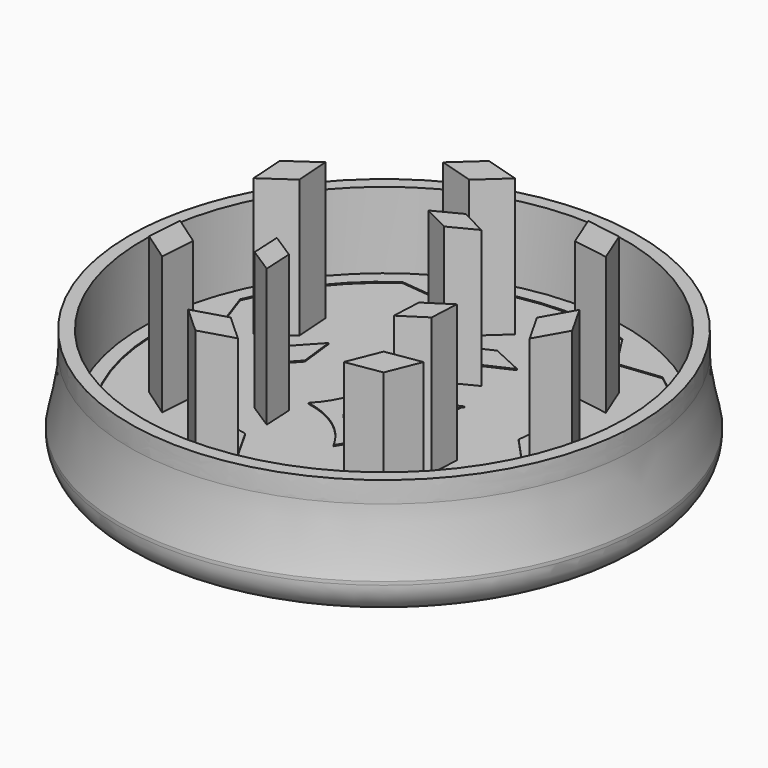
from build123d import *

# Parameters (mm, degrees)
F0_R      = 25
F1_DEPTH  = 15
F2_R      = 3
F5_R      = 21.5
F6_DEPTH  = 11
F8_DEPTH  = 10.8
F9_R      = 26.7298154152
F10_DEPTH = 5.7
F11_R     = 22.85
F11_R_2   = 3
F12_DEPTH = 5.2
F14_DEPTH = 8
F15_DEPTH = 5
F16_DEPTH = 2


with BuildPart() as f1:
    # F0 (on Top) → F1 (new body)
    with BuildSketch(Plane.XY):
        Circle(F0_R)
    extrude(amount=F1_DEPTH)

    # F2
    f2_edges = [f1.edges().sort_by_distance(p)[0] for p in [
        (-25, 0, 0),
    ]]
    fillet(f2_edges, radius=F2_R)

    # F3 (on Front) → F4 (revolve, cut)
    with BuildSketch(Plane.XZ):
        with BuildLine():
            Line((27.423677966, 5.2825664575), (25, 14.9365440011))
            add(Edge.make_bspline(
                [(25, 14.9365440011), (24.5482466845, 13.0284596048), (23.6395446157, 9.1903466819), (24.5447896478, 5.2825664575), (25, 3.3175051212)],
                knots=[0, 0, 0, 0, 0.4971412865, 1, 1, 1, 1], degree=3))
            Line((25, 3.3175051212), (27.423677966, 5.2825664575))
        make_face()
    revolve(axis=Axis((0, 0, 20.2008970082), (0, 0, -1)), mode=Mode.SUBTRACT)

    # F5 (on face) → F6 (cut)
    with BuildSketch(Plane.XY.offset(15)):
        Circle(F5_R)
    extrude(amount=-F6_DEPTH, mode=Mode.SUBTRACT)

    # F7 (on face) → F8 (join)
    with BuildSketch(Plane.XY.offset(4)):
        with BuildLine():
            Line((-3.5030060365, 4.8188975732), (-3.5, 4.8173367216))
            Line((-3.5, 4.8173367216), (-3.4936811056, 4.8173367216))
            ThreePointArc((-3.4936811056, 4.8173367216), (-3.4985674675, 4.8197108468), (-3.5034522162, 4.8220882896))
            ThreePointArc((-3.5034522162, 4.8220882896), (-3.5032289657, 4.8204929538), (-3.5030060365, 4.8188975732))
        make_face()
        with BuildLine():
            Line((-3.5019526458, 4.8113270959), (-3.5, 4.8173367216))
            Line((-3.5, 4.8173367216), (-3.5030060365, 4.8188975732))
            ThreePointArc((-3.5030060365, 4.8188975732), (-3.502478437, 4.8151124604), (-3.5019526458, 4.8113270959))
        make_face()
        with BuildLine():
            Line((-3.4936811056, 4.8173367216), (-3.5, 4.8173367216))
            Line((-3.5, 4.8173367216), (-3.5019526458, 4.8113270959))
            ThreePointArc((-3.5019526458, 4.8113270959), (-3.8176882042, 1.2404420916), (-5.6611663149, -1.8340492667))
            Line((-5.6611663149, -1.8340492667), (-5.6631189606, -1.8400588924))
            Line((-5.6631189606, -1.8400588924), (-5.6580068676, -1.8437730454))
            ThreePointArc((-5.6580068676, -1.8437730454), (-2.3594610686, -3.2475195569), (-0.005112093, -5.9508415055))
            Line((-0.005112093, -5.9508415055), (0, -5.9545556585))
            Line((0, -5.9545556585), (0.005112093, -5.9508415055))
            ThreePointArc((0.005112093, -5.9508415055), (0.0154537536, -5.9315416501), (0.025848199, -5.912270172))
            Line((0.025848199, -5.912270172), (0.0131157498, -2.9999713294))
            ThreePointArc((0.0131157498, -2.9999713294), (-2.9999928323, -0.0065578905), (0, 3))
            Line((0, 3), (0, 4.0141549306))
            ThreePointArc((0, 4.0141549306), (-1.7924082025, 4.2175356096), (-3.4936811056, 4.8173367216))
        make_face()
        Polygon((-3, 12.0141549306), (0, 10.6355519965), (0, 12.0141549306), (3, 12.0141549306), (0, 13.3927578647), align=None)
        Polygon((0, 12.0141549306), (0, 10.6355519965), (3, 12.0141549306), align=None)
        Polygon((3.9177863585, -21.4830770759), (0.0836216544, -19.1268185495), (0.0939962066, -21.4997945272), align=None)
        Polygon((0.0939962066, -21.4997945272), (0.0836216544, -19.1268185495), (-3.7297939454, -21.5165119786), align=None)
        with BuildLine():
            Line((-3.6865685479, 4.9142103997), (-3.5030060365, 4.8188975732))
            ThreePointArc((-3.5030060365, 4.8188975732), (-3.5032289657, 4.8204929538), (-3.5034522162, 4.8220882896))
            ThreePointArc((-3.5034522162, 4.8220882896), (-3.5953054485, 4.8675628244), (-3.6865685479, 4.9142103997))
        make_face()
        with BuildLine():
            ThreePointArc((3.5034522162, 4.8220882896), (1.7977022656, 4.218754584), (0, 4.0141549306))
            Line((0, 4.0141549306), (0, 3))
            ThreePointArc((0, 3), (2.1213203436, 2.1213203436), (3, 0))
            ThreePointArc((3, 0), (2.1259524041, -2.1166781464), (0.0131157498, -2.9999713294))
            Line((0.0131157498, -2.9999713294), (0.025848199, -5.912270172))
            ThreePointArc((0.025848199, -5.912270172), (2.3771928926, -3.2346736711), (5.6580068676, -1.8437730454))
            Line((5.6580068676, -1.8437730454), (5.6631189606, -1.8400588924))
            Line((5.6631189606, -1.8400588924), (5.6611663149, -1.8340492667))
            ThreePointArc((5.6611663149, -1.8340492667), (3.8176882042, 1.2404420916), (3.5019526458, 4.8113270959))
            Line((3.5019526458, 4.8113270959), (3.5, 4.8173367216))
            Line((3.5, 4.8173367216), (3.5030060365, 4.8188975732))
            ThreePointArc((3.5030060365, 4.8188975732), (3.5032289657, 4.8204929538), (3.5034522162, 4.8220882896))
        make_face()
        with BuildLine():
            Line((-5.6631189606, -1.8400588924), (-5.6611663149, -1.8340492667))
            ThreePointArc((-5.6611663149, -1.8340492667), (-5.6649342109, -1.8379628281), (-5.6687047637, -1.8418738299))
            ThreePointArc((-5.6687047637, -1.8418738299), (-5.6633554933, -1.8428216215), (-5.6580068676, -1.8437730454))
            Line((-5.6580068676, -1.8437730454), (-5.6631189606, -1.8400588924))
        make_face()
        with BuildLine():
            ThreePointArc((3.6865685479, 4.9142103997), (3.5953054485, 4.8675628244), (3.5034522162, 4.8220882896))
            ThreePointArc((3.5034522162, 4.8220882896), (3.5032289657, 4.8204929538), (3.5030060365, 4.8188975732))
            Line((3.5030060365, 4.8188975732), (3.6865685479, 4.9142103997))
        make_face()
        with BuildLine():
            ThreePointArc((3.5019526458, 4.8113270959), (3.502478437, 4.8151124604), (3.5030060365, 4.8188975732))
            Line((3.5030060365, 4.8188975732), (3.5, 4.8173367216))
            Line((3.5, 4.8173367216), (3.5019526458, 4.8113270959))
        make_face()
        with BuildLine():
            Line((0.0259506395, -5.9357014153), (0.025848199, -5.912270172))
            ThreePointArc((0.025848199, -5.912270172), (0.0154537536, -5.9315416501), (0.005112093, -5.9508415055))
            Line((0.005112093, -5.9508415055), (0.0259506395, -5.9357014153))
        make_face()
        with BuildLine():
            Line((0, -5.9545556585), (-0.005112093, -5.9508415055))
            ThreePointArc((-0.005112093, -5.9508415055), (-0.0025544188, -5.9556343446), (0, -5.9604289194))
            ThreePointArc((0, -5.9604289194), (0.0025544188, -5.9556343446), (0.005112093, -5.9508415055))
            Line((0.005112093, -5.9508415055), (0, -5.9545556585))
        make_face()
        with BuildLine():
            ThreePointArc((5.6687047637, -1.8418738299), (5.6649342109, -1.8379628281), (5.6611663149, -1.8340492667))
            Line((5.6611663149, -1.8340492667), (5.6631189606, -1.8400588924))
            Line((5.6631189606, -1.8400588924), (5.6580068676, -1.8437730454))
            ThreePointArc((5.6580068676, -1.8437730454), (5.6633554933, -1.8428216215), (5.6687047637, -1.8418738299))
        make_face()
        with BuildLine():
            Line((0.0259506395, -5.9357014153), (0.005112093, -5.9508415055))
            ThreePointArc((0.005112093, -5.9508415055), (0.0025544188, -5.9556343446), (0, -5.9604289194))
            ThreePointArc((0, -5.9604289194), (0.0131819815, -5.9852967616), (0.0262763915, -6.0102108267))
            Line((0.0262763915, -6.0102108267), (0.0259506395, -5.9357014153))
        make_face()
        Polygon((-12.7372696383, 4.1385897817), (-12.3531913176, 0.8594084977), (-10.1150110307, 3.2865663115), (-10.4990893514, 6.5657475955), align=None)
        Polygon((-7.8720655604, -10.8349687141), (-4.6346921038, -11.4830112688), (-6.2514206135, -8.6043423098), (-9.4887940701, -7.956299755), align=None)
        Polygon((7.8720655604, -10.8349687141), (9.4887940701, -7.956299755), (6.2514206135, -8.6043423098), (4.6346921038, -11.4830112688), align=None)
        Polygon((12.7372696383, 4.1385897817), (10.4990893514, 6.5657475955), (10.1150110307, 3.2865663115), (12.3531913176, 0.8594084977), align=None)
        Polygon((16.8678219042, -13.3314134363), (19.2388458386, -10.3314307527), (15.0060861502, -11.8599982656), (14.4967979698, -16.3313961198), align=None)
        Polygon((20.9398336671, 4.8757938835), (20.0726620013, 8.5999936501), (18.6286617065, 4.3376426122), (21.8070053329, 1.1515941169), align=None)
        Polygon((9.2437235839, 19.4114289609), (5.7913542693, 21.0554474264), (8.2234750424, 17.2689501312), (12.6960928985, 17.7674104954), align=None)
        Polygon((-9.4130988956, 19.3298621098), (-12.8509613495, 17.6557198378), (-8.374156057, 17.1963859791), (-5.9752364416, 21.0040043817), align=None)
        Polygon((-20.9816659144, 4.6925148326), (-21.8162409604, 0.9608751003), (-18.6658768438, 4.1745924423), (-20.1470908685, 8.424154565), align=None)
        Polygon((-16.7506105518, -13.4783918233), (-14.3534461578, -16.457528186), (-14.9018116527, -11.9907543496), (-19.1477749457, -10.4992554606), align=None)
    extrude(amount=F8_DEPTH)

    # F9 (on face) → F10 (cut)
    with BuildSketch(Plane.XY.offset(15)):
        Circle(F9_R)
    extrude(amount=-F10_DEPTH, mode=Mode.SUBTRACT)

    # F11 (on face) → F12 (cut)
    with BuildSketch(Plane.XY.offset(9.3)):
        Circle(F11_R)
        with BuildLine():
            ThreePointArc((-3.6865685479, 4.9142103997), (0, 4.0141549306), (3.6865685479, 4.9142103997))
            Line((3.6865685479, 4.9142103997), (3.5030060365, 4.8188975732))
            ThreePointArc((3.503006035, 4.8188975734), (3.8181861475, 1.2389101031), (5.6687047637, -1.8418738299))
            ThreePointArc((5.6687047637, -1.8418738299), (5.6633554933, -1.8428216215), (5.6580068676, -1.8437730454))
            ThreePointArc((5.6580068676, -1.8437730453), (2.3771928925, -3.234673671), (0.025848199, -5.912270172))
            Line((0.025848199, -5.912270172), (0.0262763915, -6.0102108267))
            ThreePointArc((0.0262763915, -6.0102108267), (0.0106444467, -5.9804932295), (-0.005112093, -5.9508415055))
            ThreePointArc((-0.0051120916, -5.9508415048), (-2.3638572075, -3.2443278545), (-5.6687047637, -1.8418738299))
            ThreePointArc((-5.6687047637, -1.8418738299), (-3.8193687201, 1.2352759645), (-3.5019526458, 4.8113270959))
            ThreePointArc((-3.5019526458, 4.8113270959), (-3.502478437, 4.8151124604), (-3.5030060365, 4.8188975732))
            Line((-3.5030060365, 4.8188975732), (-3.6865685479, 4.9142103997))
        make_face(mode=Mode.SUBTRACT)
        with BuildLine():
            Line((3.5030060365, 4.8188975732), (3.6865685479, 4.9142103997))
            ThreePointArc((3.6865685479, 4.9142103997), (0, 4.0141549306), (-3.6865685479, 4.9142103997))
            Line((-3.6865685479, 4.9142103997), (-3.5030060365, 4.8188975732))
            ThreePointArc((-3.5030060365, 4.8188975732), (-3.502478437, 4.8151124604), (-3.5019526458, 4.8113270959))
            ThreePointArc((-3.5019526458, 4.8113270959), (-3.8193687201, 1.2352759645), (-5.6687047637, -1.8418738299))
            ThreePointArc((-5.6687047637, -1.8418738299), (-2.3638572075, -3.2443278545), (-0.0051120916, -5.9508415048))
            ThreePointArc((-0.005112093, -5.9508415055), (0.0106444467, -5.9804932295), (0.0262763915, -6.0102108267))
            Line((0.0262763915, -6.0102108267), (0.025848199, -5.912270172))
            ThreePointArc((0.025848199, -5.912270172), (2.3771928925, -3.234673671), (5.6580068676, -1.8437730453))
            ThreePointArc((5.6580068676, -1.8437730454), (5.6633554933, -1.8428216215), (5.6687047637, -1.8418738299))
            ThreePointArc((5.6687047637, -1.8418738299), (3.8181861475, 1.2389101031), (3.503006035, 4.8188975734))
        make_face()
        Circle(F11_R_2, mode=Mode.SUBTRACT)
    extrude(amount=-F12_DEPTH, mode=Mode.SUBTRACT)

    # F13 (on face) → F14 (join)
    with BuildSketch(Plane.XY.offset(4)):
        Polygon((-8.3754406925, -4.8355629384), (-6.0154601477, -6.3597788815), (-6.1554796029, -3.5538678057), (-8.5154601477, -2.0296518626), align=None)
        Polygon((-2.5, 8.3894307441), (0, 7.1077356115), (0, 8.3894307441), (0, 9.6711258767), align=None)
        Polygon((0, 9.6711258767), (0, 8.3894307441), (2.5, 8.3894307441), align=None)
        Polygon((0, 8.3894307441), (0, 7.1077356115), (2.5, 8.3894307441), align=None)
        Polygon((8.3754406925, -4.8355629384), (8.5154601477, -2.0296518626), (6.1554796029, -3.5538678057), (6.0154601477, -6.3597788815), align=None)
        Polygon((16.1446537822, 0), (14.4750513136, 0), (16.1446537822, -2.9470613226), (17.8142562509, 0), (16.1446537822, 2.9470613226), align=None)
        Polygon((16.1446537822, 2.9470613226), (14.4750513136, 0), (16.1446537822, 0), align=None)
        Polygon((11.1070071001, 13.9277463737), (7.761921665, 14.4598612806), (9.0250468754, 11.3170508273), (12.3701323106, 10.7849359204), align=None)
        Polygon((-3.9640449387, 17.3676156537), (-6.4656957804, 15.0840907669), (-3.2210019374, 14.1121315559), (-0.7193510957, 16.3956564428), align=None)
        Polygon((11.1070071001, -13.9277463737), (12.3701323106, -10.7849359204), (9.0250468754, -11.3170508273), (7.761921665, -14.4598612806), align=None)
        Polygon((-3.9640449387, -17.3676156537), (-0.7193510957, -16.3956564428), (-3.2210019374, -14.1121315559), (-6.4656957804, -15.0840907669), align=None)
        Polygon((-16.0500902869, -7.7293161117), (-13.2671484548, -9.6601132533), (-13.0415705949, -6.2804893879), (-15.8245124269, -4.3496922463), align=None)
        Polygon((-16.0500902869, 7.7293161117), (-15.8245124269, 4.3496922463), (-13.0415705949, 6.2804893879), (-13.2671484548, 9.6601132533), align=None)
    extrude(amount=F14_DEPTH)

    # F15 (add): faces of the model
    f15_faces = [f1.faces().sort_by_distance(p)[0] for p in [
        (-14.5458304409, -7.0049027498, 12),
        (-7.2654601477, -4.1947153721, 12),
        (-14.5458304409, 7.0049027498, 12),
        (-3.592523438, 15.7398736048, 12),
        (0, 8.3894307441, 12),
        (10.0660269878, 12.6223986005, 12),
        (16.1446537822, 0, 12),
        (7.2654601477, -4.1947153721, 12),
        (-3.592523438, -15.7398736048, 12),
        (10.0660269878, -12.6223986005, 12),
    ]]
    extrude(f15_faces, amount=F15_DEPTH)

    # F16 (add): a face of the model
    f16_faces = [f1.faces().sort_by_distance(p)[0] for p in [
        (-23.4122124489, 6.2e-09, 9.3),
    ]]
    extrude(f16_faces, amount=F16_DEPTH)


solid = f1.part
